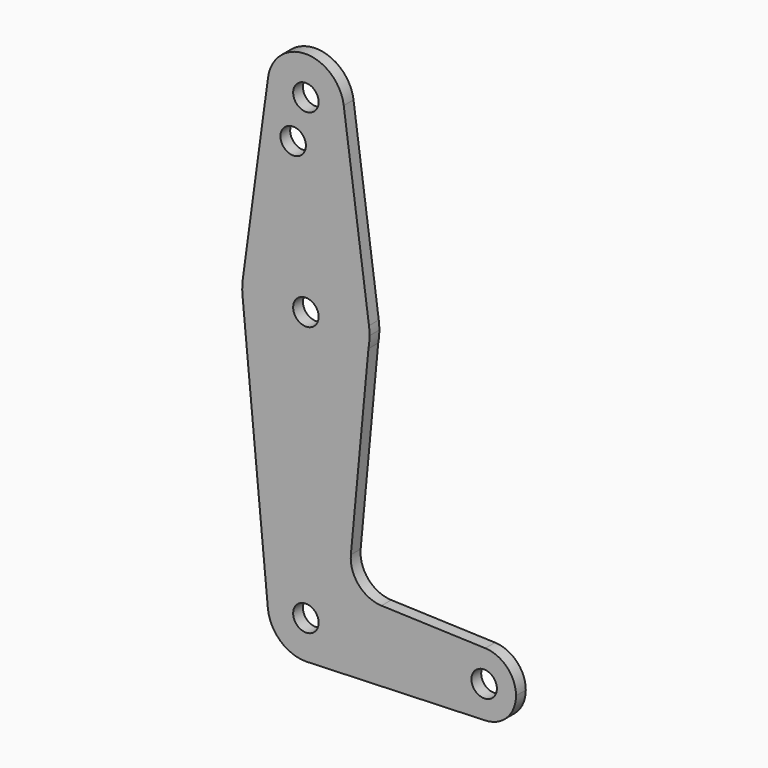
from build123d import *

# Parameters (mm, degrees)
F0_R     = 3.175
F1_DEPTH = 3.048


with BuildPart() as f1:
    # F0 (on Front) → F1 (new body)
    with BuildSketch(Plane.XZ):
        with BuildLine():
            ThreePointArc((0.677344, -9.500886), (6.970557, -6.491299), (9.525, 0))
            ThreePointArc((9.525, 0), (-0.450779, 9.514327), (-9.482333, -0.900548))
            ThreePointArc((-9.482333, -0.900548), (-6.408896, -7.046394), (0, -9.525))
            Line((0, -9.525), (0.677344, -9.500886))
        make_face()
        Circle(F0_R, mode=Mode.SUBTRACT)
        with BuildLine():
            ThreePointArc((-9.482333, -0.900548), (-0.450779, 9.514327), (9.525, 0))
            ThreePointArc((9.525, 0), (6.970557, -6.491299), (0.677344, -9.500886))
            Line((0.677344, -9.500886), (44.732405, -7.932475))
            ThreePointArc((44.732405, -7.932475), (36.5125, 0.000539), (44.733482, 7.932436))
            Line((44.733482, 7.932436), (18.846308, 8.857568))
            ThreePointArc((18.846308, 8.857568), (13.156981, 11.556192), (11.214879, 17.54612))
            Line((11.214879, 17.54612), (15.597374, 64.207307))
            ThreePointArc((15.597374, 64.207307), (-0.734802, 51.305259), (-15.803888, 65.66233))
            Line((-15.803888, 65.66233), (-9.482333, -0.900548))
        make_face()
        with BuildLine():
            ThreePointArc((0, -9.525), (0.338886, -9.51897), (0.677344, -9.500886))
            Line((0.677344, -9.500886), (0, -9.525))
        make_face()
        with BuildLine():
            ThreePointArc((-15.730291, 69.301835), (-15.871755, 67.484199), (-15.803888, 65.66233))
            ThreePointArc((-15.803888, 65.66233), (-0.734802, 51.305259), (15.597374, 64.207307))
            Line((15.597374, 64.207307), (15.875, 67.163244))
            ThreePointArc((15.875, 67.163244), (15.838781, 68.234985), (15.730291, 69.301835))
            ThreePointArc((15.730291, 69.301835), (0, 83.038244), (-15.730291, 69.301835))
        make_face()
        with Locations((0, 67.163244)):
            Circle(F0_R, mode=Mode.SUBTRACT)
        with BuildLine():
            ThreePointArc((44.733482, 7.932436), (36.5125, 0.000539), (44.732405, -7.932475))
            ThreePointArc((44.732405, -7.932475), (50.161633, -5.51191), (52.3875, 0))
            ThreePointArc((52.3875, 0), (50.162007, 5.511523), (44.733482, 7.932436))
        make_face()
        with Locations((44.45, 0)):
            Circle(F0_R, mode=Mode.SUBTRACT)
        with BuildLine():
            Line((-9.438175, 115.583155), (-15.730291, 69.301835))
            ThreePointArc((-15.730291, 69.301835), (0, 83.038244), (15.730291, 69.301835))
            Line((15.730291, 69.301835), (9.438175, 115.583155))
            ThreePointArc((9.438175, 115.583155), (9.503269, 114.943044), (9.525, 114.3))
            ThreePointArc((9.525, 114.3), (6.666815, 107.497118), (-0.192418, 104.776944))
            ThreePointArc((-0.192418, 104.776944), (-0.048475, 104.241132), (0, 103.688444))
            ThreePointArc((0, 103.688444), (-4.600703, 100.851545), (-5.069604, 106.236208))
            ThreePointArc((-5.069604, 106.236208), (-8.629036, 110.266966), (-9.438175, 115.583155))
        make_face()
        with BuildLine():
            Line((15.875, 67.163244), (15.597374, 64.207307))
            ThreePointArc((15.597374, 64.207307), (15.805441, 65.678771), (15.875, 67.163244))
        make_face()
        with BuildLine():
            ThreePointArc((9.438175, 115.583155), (0, 123.825), (-9.438175, 115.583155))
            ThreePointArc((-9.438175, 115.583155), (-8.629036, 110.266966), (-5.069604, 106.236208))
            ThreePointArc((-5.069604, 106.236208), (-2.264897, 106.73021), (-0.192418, 104.776944))
            ThreePointArc((-0.192418, 104.776944), (6.666815, 107.497118), (9.525, 114.3))
            ThreePointArc((9.525, 114.3), (9.503269, 114.943044), (9.438175, 115.583155))
        make_face()
        with Locations((0, 114.3)):
            Circle(F0_R, mode=Mode.SUBTRACT)
    extrude(amount=F1_DEPTH)


solid = f1.part
